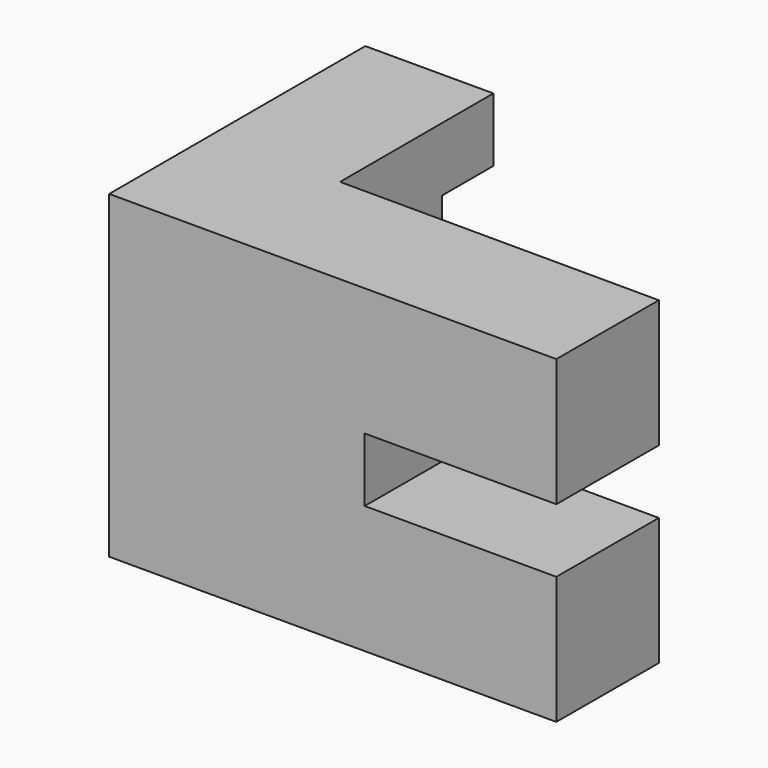
from build123d import *

# Parameters (mm, degrees)
F1_DEPTH = 31.75
F2_W     = 12.7296627492
F2_H     = 19.05
F3_DEPTH = 6.35
F4_W     = 19.05
F4_H     = 6.35
F5_DEPTH = 14.4526


with BuildPart() as f1:
    # F0 (on Top) → F1 (new body)
    with BuildSketch(Plane.XY):
        Polygon((-31.7499138997, 0.0739416222), (-31.7499138997, 19.1239416222), (-44.4795766489, 19.1239416222), (-44.4795766489, -12.6999655599), (-0.0295766489, -12.6999655599), (0, 0), align=None)
    extrude(amount=F1_DEPTH)

    # F2 (on face) → F3 (cut)
    with BuildSketch(Plane(origin=(0, 19.1239416222, 0), x_dir=(-1, 0, 0), z_dir=(0, 1, 0))):
        with Locations((38.1147452743, 15.875)):
            Rectangle(F2_W, F2_H)
    extrude(amount=-F3_DEPTH, mode=Mode.SUBTRACT)

    # F4 (on face) → F5 (cut)
    with BuildSketch(Plane(origin=(0, 0, 0), x_dir=(-0.9999972882, 0.00232887, 0), z_dir=(0.00232887, 0.9999972882, 0))):
        with Locations((9.525, 15.875)):
            Rectangle(F4_W, F4_H)
    extrude(amount=-F5_DEPTH, mode=Mode.SUBTRACT)


solid = f1.part
